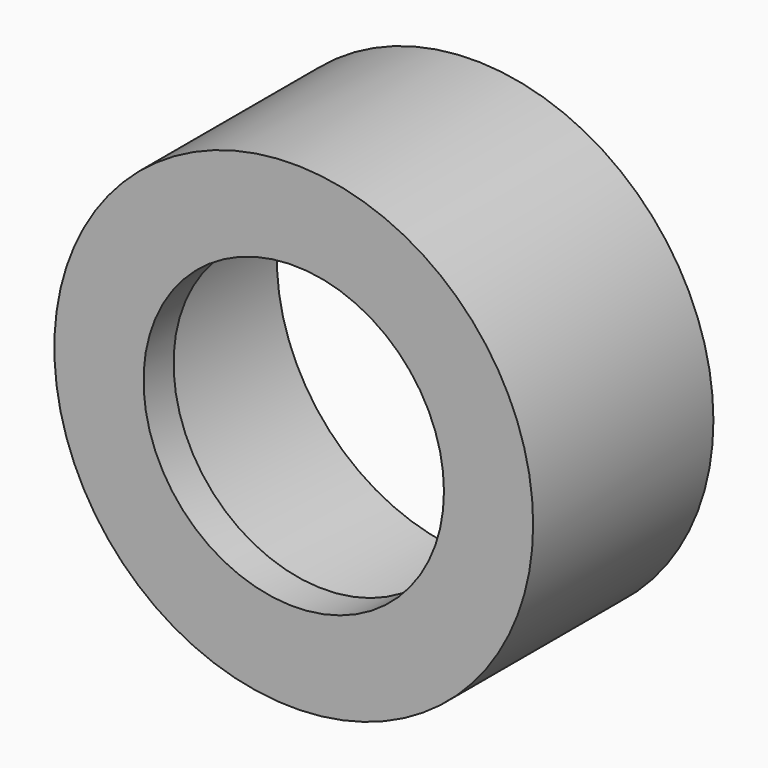
from build123d import *

# Parameters (mm, degrees)
SKETCH019_R   = 16.66875
PAD019_DEPTH  = 15.875
SKETCH018_R   = 20.240625
SKETCH018_R_2 = 12.7
PAD018_DEPTH  = 19.05


with BuildPart() as body019:
    # Sketch019 → Pad019 (new body)
    with BuildSketch(Plane.XZ):
        Circle(SKETCH019_R)
    extrude(amount=PAD019_DEPTH)


with BuildPart() as cut012:
    # Sketch018 → Pad018 (new body)
    with BuildSketch(Plane.XZ):
        Circle(SKETCH018_R)
        Circle(SKETCH018_R_2, mode=Mode.SUBTRACT)
    extrude(amount=PAD018_DEPTH)

    # Cut012: cut Body019
    add(body019.part, mode=Mode.SUBTRACT)


with BuildPart() as cut012_1:
    # Cut012 placement: moved
    add(cut012.part.moved(Location((0, -29.37, 0))))


solid = cut012_1.part
